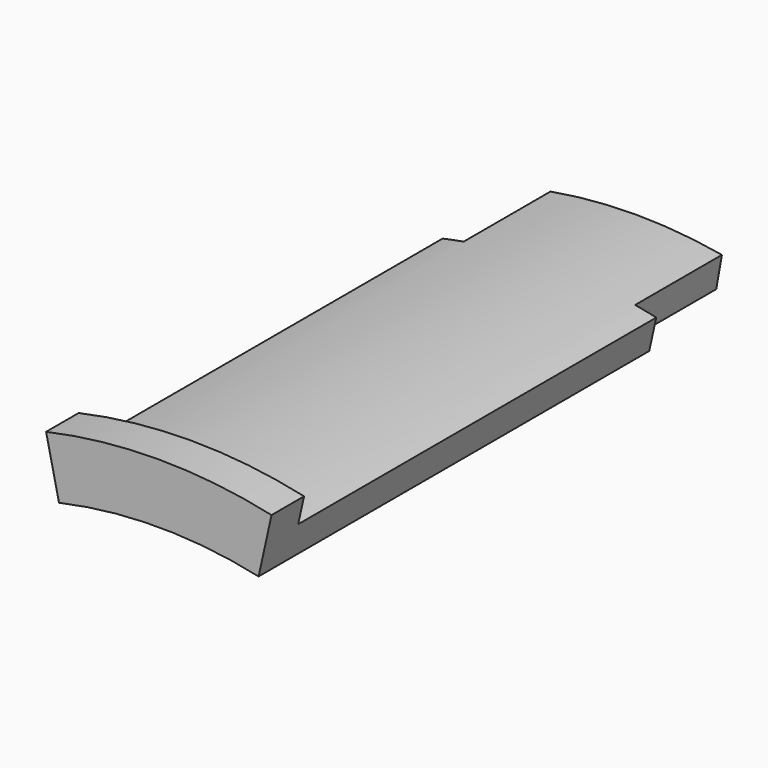
from build123d import *

# Parameters (mm, degrees)
F1_ANGLE_BACK = 12.5
F1_ANGLE      = 25
F2_W          = 4
F2_H          = 1.2
F3_ANGLE_BACK = 10
F3_ANGLE      = 20


with BuildPart() as f1:
    # F0 (on Right) → F1 (revolve)
    with BuildSketch(Plane.YZ, mode=Mode.PRIVATE) as f1_sk:
        Polygon((0, 18.2), (-16.5, 18.2), (-16.5, 19.2), (-18, 19.2), (-18, 17), (0, 17), align=None)
    revolve(f1_sk.sketch.rotate(Axis((0, 7.2532626098, 0), (0, 1, 0)), -F1_ANGLE_BACK), axis=Axis((0, 7.2532626098, 0), (0, 1, 0)), revolution_arc=F1_ANGLE)

    # F2 (on Right) → F3 (revolve)
    with BuildSketch(Plane.YZ, mode=Mode.PRIVATE) as f3_sk:
        with Locations((2, 17.6)):
            Rectangle(F2_W, F2_H)
    revolve(f3_sk.sketch.rotate(Axis((0, 7.2532626098, 0), (0, 1, 0)), -F3_ANGLE_BACK), axis=Axis((0, 7.2532626098, 0), (0, 1, 0)), revolution_arc=F3_ANGLE)


solid = f1.part
